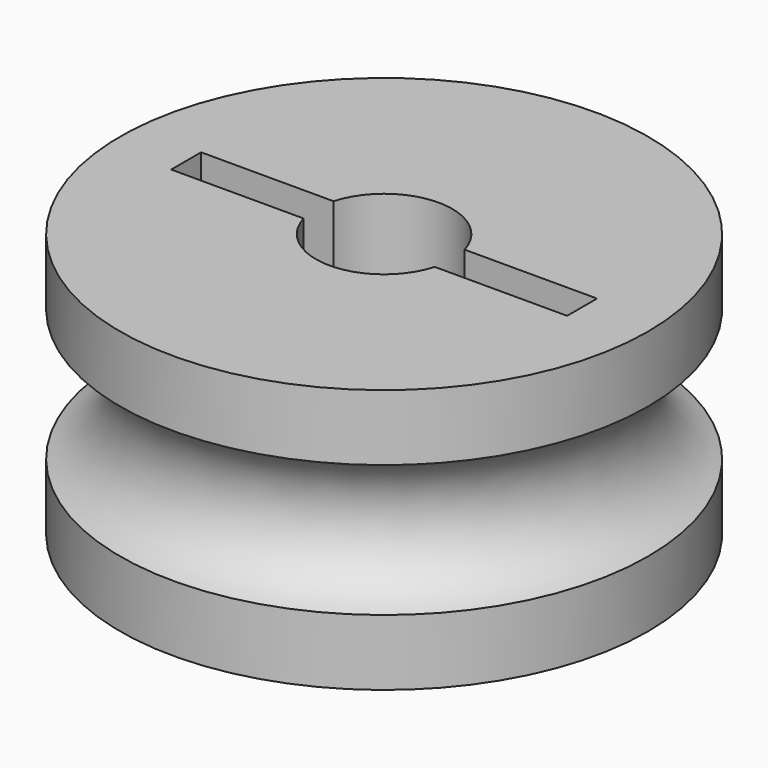
from build123d import *

# Parameters (mm, degrees)
F3_DEPTH = 4


with BuildPart() as f1:
    # F0 (on Front) → F1 (revolve)
    with BuildSketch(Plane.XZ):
        with BuildLine():
            Line((12, 9), (12, 12))
            Line((12, 12), (3.1, 12))
            Line((3.1, 12), (3.1, 0))
            Line((3.1, 0), (12, 0))
            Line((12, 0), (12, 3))
            ThreePointArc((12, 3), (9.800525, 6), (12, 9))
        make_face()
    revolve(axis=Axis((0, 0, 8.473897), (0, 0, 1)))

    # F2 (on face) → F3 (cut)
    with BuildSketch(Plane.XY.offset(12)):
        with BuildLine():
            Line((-9, -0.85), (-2.981191, -0.85))
            ThreePointArc((-2.981191, -0.85), (-3.1, 0), (-2.981191, 0.85))
            Line((-2.981191, 0.85), (-9, 0.85))
            Line((-9, 0.85), (-9, -0.85))
        make_face()
        with BuildLine():
            Line((2.981191, -0.85), (9, -0.85))
            Line((9, -0.85), (9, 0.85))
            Line((9, 0.85), (2.981191, 0.85))
            ThreePointArc((2.981191, 0.85), (3.070154, 0.429132), (3.1, 0))
            ThreePointArc((3.1, 0), (3.070154, -0.429132), (2.981191, -0.85))
        make_face()
    extrude(amount=-F3_DEPTH, mode=Mode.SUBTRACT)


solid = f1.part
